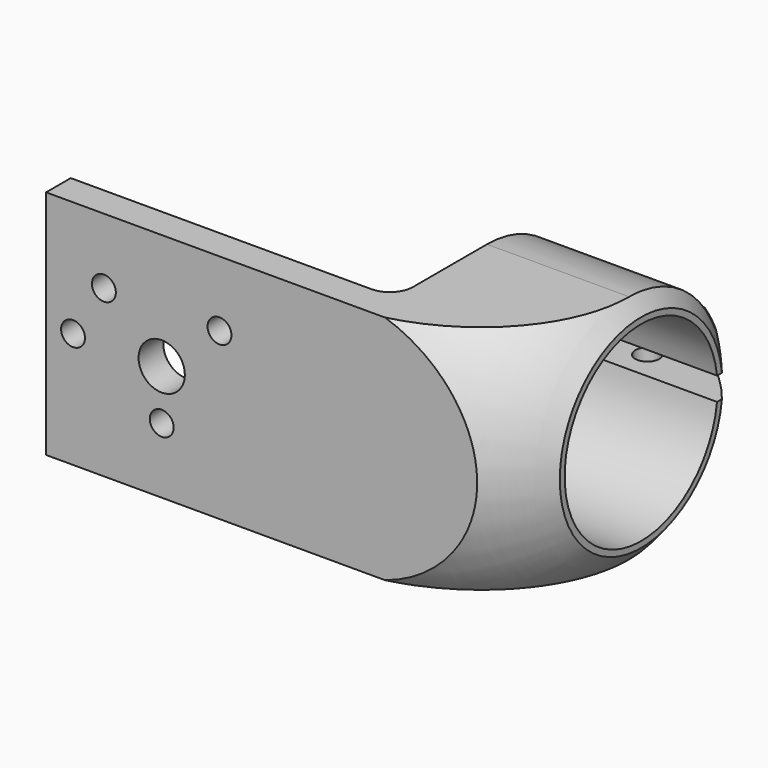
from build123d import *

# Parameters (mm, degrees)
SKETCH074_W             = 30
SKETCH074_H             = 62
PAD034_DEPTH            = 4
PAD084_DEPTH            = 20
SKETCH164_R             = 1.55
POCKET003_DEPTH         = 5
CHAMFER_SIZE            = 3
FILLET_R                = 3
FILLET001_R             = 5
SKETCH_R                = 1.375
POCKET_DEPTH            = 19.001
POCKET_DEPTH_BACK       = -11.001
SKETCH166_R             = 2.95
POCKET004_DEPTH         = 5
SKETCH167_R             = 1.55
POCKET005_DEPTH         = 2.5
SKETCH168_R             = 3
POCKET006_DEPTH         = 5
BODY010_PITCH_ANGLE     = 90
BODY010_PLACEMENT_ANGLE = -180


with BuildPart() as part:
    # Sketch074 → Pad034 (new body)
    with BuildSketch(Plane.XZ):
        with Locations((15, -16)):
            Rectangle(SKETCH074_W, SKETCH074_H)
    extrude(amount=PAD034_DEPTH)

    # Sketch160 (on Face3 of Pad034) → Pad084 (join)
    with BuildSketch(Plane(origin=(0, 0, -47), x_dir=(1, 0, 0), z_dir=(0, 0, -1))):
        with BuildLine():
            Line((0, 0), (0, 19))
            ThreePointArc((11, 33.456832), (3.062664, 28.082951), (0, 19))
            Line((11, 38.456832), (11, 33.456832))
            Line((13.5, 38.456832), (11, 38.456832))
            Line((13.5, 31.30894), (13.5, 38.456832))
            ThreePointArc((13.5, 31.30894), (15, 6.6), (16.5, 31.30894))
            Line((16.5, 31.30894), (16.5, 38.456832))
            Line((16.5, 38.456832), (19, 38.456832))
            Line((19, 38.456832), (19, 33.456832))
            ThreePointArc((30, 19), (26.937336, 28.082951), (19, 33.456832))
            Line((30, 19), (30, 0))
            Line((30, 0), (0, 0))
        make_face()
    extrude(amount=-PAD084_DEPTH)

    # Sketch164 → Pocket003 (cut)
    with BuildSketch(Plane.XZ.offset(4)):
        with Locations((8.504809, 7.5)):
            Circle(SKETCH164_R)
        with Locations((8.504809, -7.5)):
            Circle(SKETCH164_R)
        with Locations((21.495191, 0)):
            Circle(SKETCH164_R)
        with Locations((15, 11.5)):
            Circle(SKETCH164_R)
    extrude(amount=-POCKET003_DEPTH, mode=Mode.SUBTRACT)

    # Sketch165 (on DatumPlane) → Groove (revolve, cut)
    with BuildSketch(Plane(origin=(15, 0, 0), x_dir=(0, 0, 1), z_dir=(1, 0, 0))):
        with BuildLine():
            Line((-51.816792, 23.505394), (-59.215083, 23.505394))
            Line((-59.215083, 23.505394), (-59.215083, 49.506645))
            Line((-59.215083, 49.506645), (-28.913541, 49.506645))
            Line((-28.913541, 49.506645), (-28.913541, 43.218523))
            ThreePointArc((-28.913541, 43.218523), (-42.969663, 36.387934), (-51.816792, 23.505394))
        make_face()
    revolve(axis=Axis((15, -19, 0), (0, 0, 1)), mode=Mode.SUBTRACT)

    # Chamfer
    chamfer_edges = [part.edges().sort_by_distance(p)[0] for p in [
        (17.75, -38.456832, -27),
        (12.25, -38.456832, -27),
    ]]
    chamfer(chamfer_edges, length=CHAMFER_SIZE)

    # Fillet
    fillet_edges = [part.edges().sort_by_distance(p)[0] for p in [
        (15, -4, -27),
    ]]
    fillet(fillet_edges, radius=FILLET_R)

    # Fillet001
    fillet001_edges = [part.edges().sort_by_distance(p)[0] for p in [
        (11, -33.456832, -36.223655),
        (19, -33.456832, -36.223655),
    ]]
    fillet(fillet001_edges, radius=FILLET001_R)

    # Sketch (on Face10 of Fillet001) → Pocket (cut, two sides)
    with BuildSketch(Plane(origin=(19, 0, 0), x_dir=(0, 0, 1), z_dir=(1, 0, 0))) as pocket_sk:
        with Locations((-35, 35)):
            Circle(SKETCH_R)
    extrude(amount=-POCKET_DEPTH, mode=Mode.SUBTRACT)
    extrude(pocket_sk.sketch, amount=-POCKET_DEPTH_BACK, mode=Mode.SUBTRACT)

    # Sketch166 (on Face10 of Pocket) → Pocket004 (cut)
    with BuildSketch(Plane(origin=(19, 0, 0), x_dir=(0, 0, 1), z_dir=(1, 0, 0))):
        with Locations((-35, 35)):
            Circle(SKETCH166_R)
    extrude(amount=POCKET004_DEPTH, mode=Mode.SUBTRACT)

    # Sketch167 (on Face23 of Pocket004) → Pocket005 (cut)
    with BuildSketch(Plane(origin=(19, 0, 0), x_dir=(0, 0, 1), z_dir=(1, 0, 0))):
        with Locations((-35, 35)):
            Circle(SKETCH167_R)
    extrude(amount=-POCKET005_DEPTH, mode=Mode.SUBTRACT)

    # Sketch168 (on Face17 of Pocket005) → Pocket006 (cut)
    with BuildSketch(Plane.XZ.offset(4)):
        with Locations((15, 0)):
            Circle(SKETCH168_R)
    extrude(amount=-POCKET006_DEPTH, mode=Mode.SUBTRACT)


with BuildPart() as part_1:
    # Body010 pitch: moved
    add(part.part.rotate(Axis((0, 0, 0), (0, 1, 0)), BODY010_PITCH_ANGLE))


with BuildPart() as part_2:
    # Body010 placement: moved
    add(part_1.part.rotate(Axis((0, 0, 0), (0, 0, 1)), BODY010_PLACEMENT_ANGLE))


solid = part_2.part
